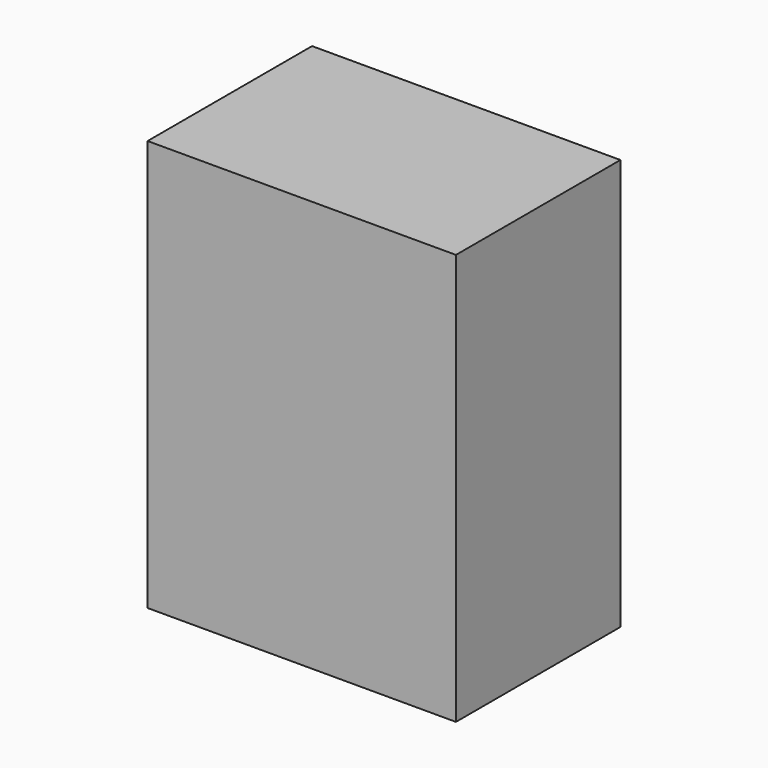
from build123d import *

# Parameters (mm, degrees)
BOX_W     = 30
BOX_H     = 20
BOX_DEPTH = 40


with BuildPart() as part:
    # Box → Box (new body)
    with BuildSketch(Plane.XY):
        with Locations((15, 10)):
            Rectangle(BOX_W, BOX_H)
    extrude(amount=BOX_DEPTH)


solid = part.part
